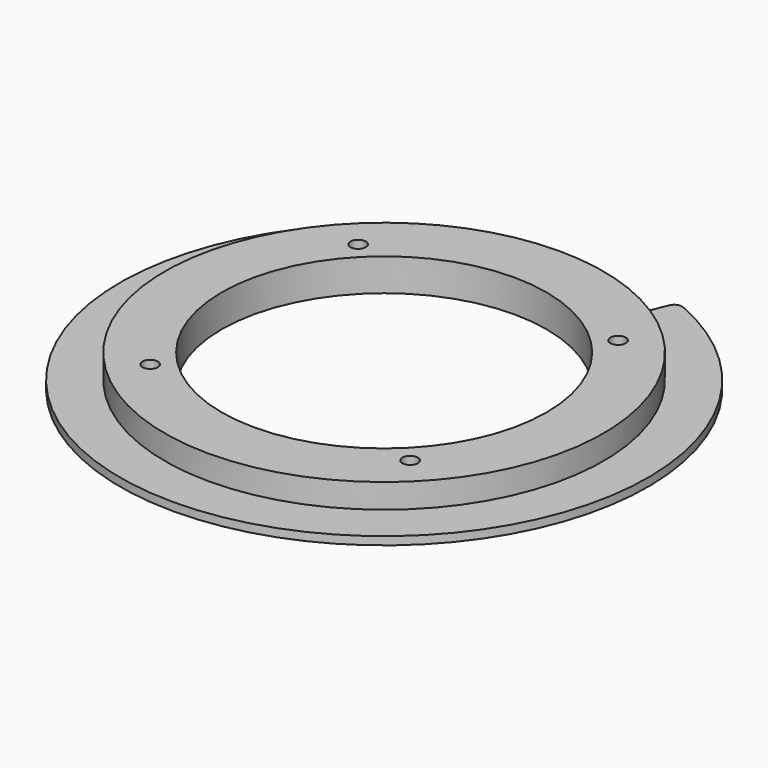
from build123d import *

# Parameters (mm, degrees)
SKETCH_R        = 32.5
PAD_DEPTH       = 1
SKETCH001_R     = 27
PAD001_DEPTH    = 3
SKETCH002_R     = 0.95
POCKET_DEPTH    = 5
SKETCH003_R     = 20
POCKET001_DEPTH = 5
FILLET_R        = 1


with BuildPart() as part:
    # Sketch → Pad (new body)
    with BuildSketch(Plane.XY):
        Circle(SKETCH_R)
    extrude(amount=PAD_DEPTH)

    # Sketch001 (on Face3 of Pad) → Pad001 (join)
    with BuildSketch(Plane.XY.offset(1)):
        Circle(SKETCH001_R)
    extrude(amount=PAD001_DEPTH)

    # Sketch002 (on Face5 of Pad001) → Pocket (cut)
    with BuildSketch(Plane.XY.offset(4)):
        with Locations((-16, 16)):
            Circle(SKETCH002_R)
        with Locations((16, 16)):
            Circle(SKETCH002_R)
        with Locations((-16, -16)):
            Circle(SKETCH002_R)
        with Locations((16, -16)):
            Circle(SKETCH002_R)
    extrude(amount=-POCKET_DEPTH, mode=Mode.SUBTRACT)

    # Sketch003 (on Face9 of Pocket) → Pocket001 (cut)
    with BuildSketch(Plane.XY.offset(4)):
        Circle(SKETCH003_R)
        with BuildLine():
            ThreePointArc((10, 25.079872408), (0, 27), (-10, 25.079872408))
            Line((-12.037037037, 30.1887353059), (-10, 25.079872408))
            ThreePointArc((12.037037037, 30.1887353059), (0, 32.5), (-12.037037037, 30.1887353059))
            Line((10, 25.079872408), (12.037037037, 30.1887353059))
        make_face()
    extrude(amount=-POCKET001_DEPTH, mode=Mode.SUBTRACT)

    # Fillet
    fillet_edges = [part.edges().sort_by_distance(p)[0] for p in [
        (12.037037, 30.188735, 0.5),
        (-12.037037, 30.188735, 0.5),
        (-10, 25.079872, 0.5),
        (10, 25.079872, 0.5),
    ]]
    fillet(fillet_edges, radius=FILLET_R)


solid = part.part
